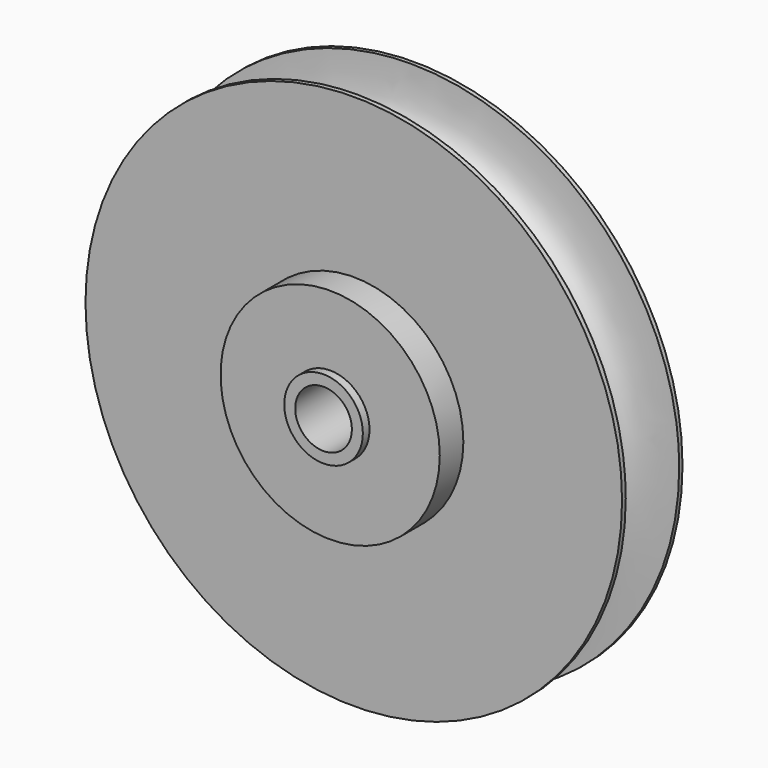
from build123d import *

# Parameters (mm, degrees)
F0_R     = 45.085
F0_R_2   = 18.415
F1_DEPTH = 6.35
F0_R_3   = 6.604
F2_DEPTH = 11.303
F0_R_4   = 4.7625
F3_DEPTH = 12.7


with BuildPart() as f1:
    # F0 (on Front) → F1 (new body, symmetric)
    with BuildSketch(Plane.XZ):
        Circle(F0_R)
        Circle(F0_R_2, mode=Mode.SUBTRACT)
    extrude(amount=F1_DEPTH, both=True)

    # F0 (on Front) → F2 (join, symmetric)
    with BuildSketch(Plane.XZ):
        Circle(F0_R_2)
        Circle(F0_R_3, mode=Mode.SUBTRACT)
    extrude(amount=F2_DEPTH, both=True)

    # F0 (on Front) → F3 (join, symmetric)
    with BuildSketch(Plane.XZ):
        Circle(F0_R_3)
        Circle(F0_R_4, mode=Mode.SUBTRACT)
    extrude(amount=F3_DEPTH, both=True)

    # F4 (on Right) → F5 (revolve, cut)
    with BuildSketch(Plane.YZ):
        with BuildLine():
            Line((5.6580589153, 45.2881976962), (-5.5725798011, 45.2881976962))
            add(Edge.make_bspline(
                [(-5.5725798011, 45.2881976962), (-5.5725798011, 35.8861179518), (-0.0057704546, 35.6446596601), (5.6060645729, 35.8773358166), (5.6580589153, 45.2881976962)],
                knots=[0, 0, 0, 0, 0.4995092449, 1, 1, 1, 1], degree=3))
        make_face()
    revolve(axis=Axis((0, 0, 0), (0, -1, 0)), mode=Mode.SUBTRACT)


solid = f1.part
